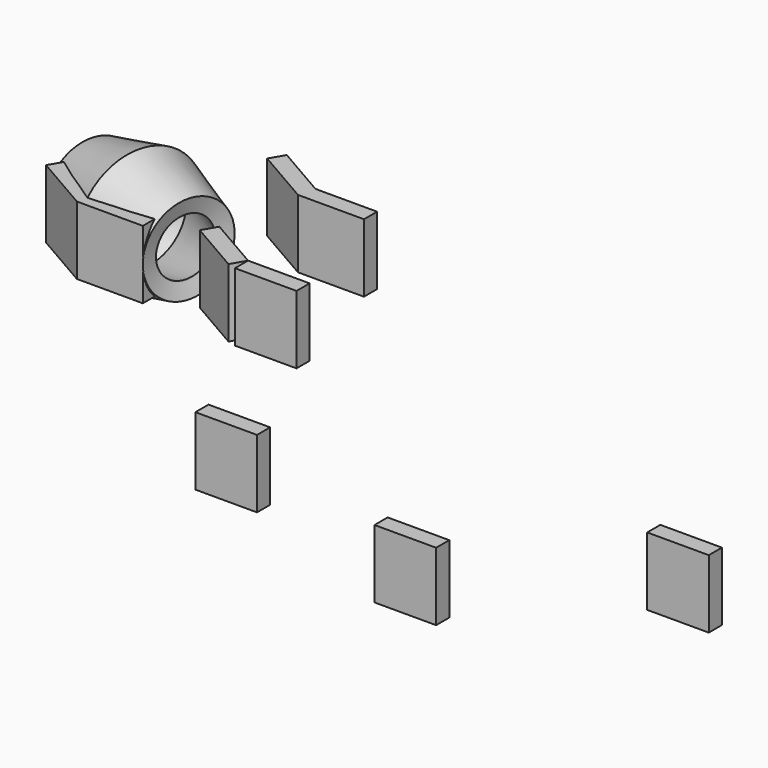
from build123d import *

# Parameters (mm, degrees)
F1_DEPTH = 196.85
F0_W     = 177.8
F0_H     = 47.3964
F3_DEPTH = 196.85
F4_W     = 177.8
F4_H     = 47.3964
F5_DEPTH = 98.425
F6_DEPTH = 98.425


with BuildPart() as f1:
    # F0 (on Top) → F1 (new body)
    with BuildSketch(Plane.XY):
        Polygon((218.18133, 63.052272), (205.48133, 15.655227), (395.98133, 15.655227), (395.98133, 63.052272), align=None)
        Polygon((40.503491, 110.905227), (205.48133, 15.655227), (218.18133, 63.052272), (64.202014, 151.952272), align=None)
    extrude(amount=F1_DEPTH)


with BuildPart() as f2:
    # F0 (on Top) → F2 (revolve)
    with BuildSketch(Plane.XY):
        Polygon((-446.603314, -78.034535), (-281.625475, -173.284535), (-268.925475, -125.88749), (-422.904791, -36.98749), align=None)
        Polygon((-268.925475, -125.88749), (-281.625475, -173.284535), (-91.125475, -173.284535), (-91.125475, -125.88749), align=None)
    revolve(axis=Axis((-189.536265, -13.88766, 0), (0.965926, -0.258819, 0)))


with BuildPart() as f3:
    # F0 (on Top) → F3 (new body)
    with BuildSketch(Plane.XY):
        Polygon((294.359544, -346.15975), (318.057744, -305.113264), (164.078428, -216.213264), (140.380228, -257.25975), align=None)
        with Locations((406.957744, -328.811464)):
            Rectangle(F0_W, F0_H)
    extrude(amount=F3_DEPTH)


with BuildPart() as f5:
    # F4 (on Top) → F5 (new body, symmetric)
    with BuildSketch(Plane.XY):
        with Locations((1317.60931, -963.471294)):
            Rectangle(F4_W, F4_H)
        with Locations((658.344746, -785.671294)):
            Rectangle(F4_W, F4_H)
        with Locations((1820.16325, -607.871294)):
            Rectangle(F4_W, F4_H)
    extrude(amount=F5_DEPTH, both=True)


with BuildPart() as f6:
    # F0 (on Top) → F6 (new body, symmetric)
    with BuildSketch(Plane.XY):
        Polygon((-268.925475, -125.88749), (-281.625475, -173.284535), (-91.125475, -173.284535), (-91.125475, -125.88749), align=None)
        Polygon((-446.603314, -78.034535), (-281.625475, -173.284535), (-268.925475, -125.88749), (-422.904791, -36.98749), align=None)
    extrude(amount=F6_DEPTH, both=True)


solid = Compound([f1.part, f2.part, f3.part, f5.part, f6.part])
